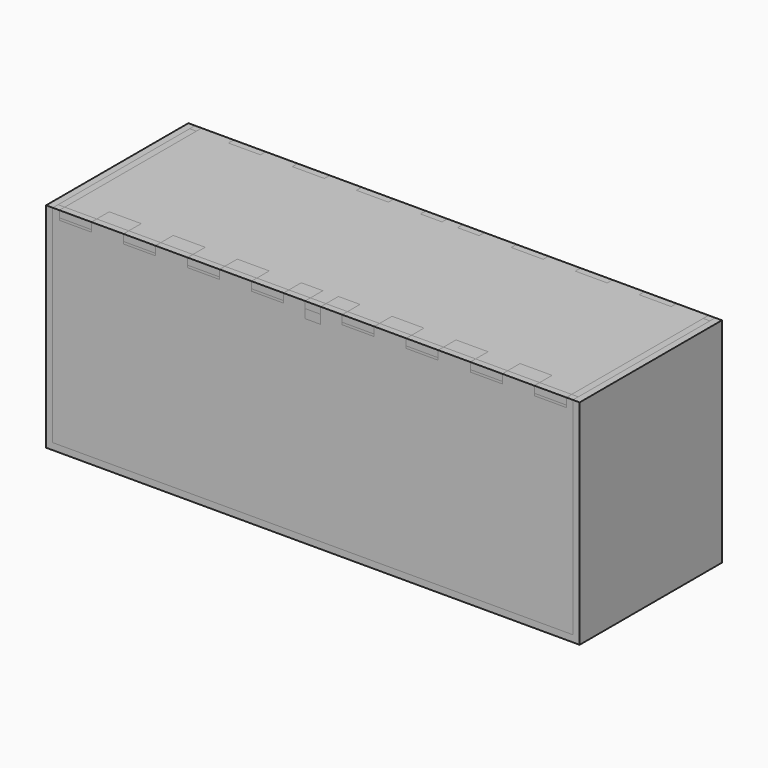
from build123d import *

# Parameters (mm, degrees)
F0_W      = 1524
F0_H      = 508
F1_DEPTH  = 609.6
F2_W      = 1485.9
F2_H      = 571.5
F3_DEPTH  = 19.05
F5_DEPTH  = 44.45
F7_DEPTH  = 19.05
F8_W      = 469.9
F8_H      = 101.6
F8_H_2    = 38.1
F9_DEPTH  = 19.05
F11_W     = 1485.9
F11_H     = 19.05
F12_DEPTH = 19.05


with BuildPart() as f1:
    # F0 (on Top) → F1 (new body)
    with BuildSketch(Plane.XY):
        Rectangle(F0_W, F0_H)
    extrude(amount=-F1_DEPTH)


with BuildPart() as f3:
    # F2 (on face) → F3 (new body)
    with BuildSketch(Plane.XZ.offset(254)):
        with Locations((0, -304.8)):
            Rectangle(F2_W, F2_H)
    extrude(amount=-F3_DEPTH)


with BuildPart() as f5:
    # F4 (on face) → F5 (new body)
    with BuildSketch(Plane(origin=(0, -234.95, 0), x_dir=(-1, 0, 0), z_dir=(0, 1, 0))):
        Polygon((-723.9, -25.4), (-723.9, -95.25), (723.9, -95.25), (723.9, -25.4), (632.46, -25.4), (632.46, 0), (541.02, 0), (541.02, -25.4), (449.58, -25.4), (449.58, 0), (358.14, 0), (358.14, -25.4), (266.7, -25.4), (266.7, 0), (175.26, 0), (175.26, -25.4), (83.82, -25.4), (83.82, 0), (22.225, 0), (22.225, -44.45), (-22.225, -44.45), (-22.225, 0), (-83.82, 0), (-83.82, -25.4), (-175.26, -25.4), (-175.26, 0), (-266.7, 0), (-266.7, -25.4), (-358.14, -25.4), (-358.14, 0), (-449.58, 0), (-449.58, -25.4), (-541.02, -25.4), (-541.02, 0), (-632.46, 0), (-632.46, -25.4), align=None)
    extrude(amount=F5_DEPTH)


with BuildPart() as f7:
    # F6 (on face) → F7 (new body)
    with BuildSketch(Plane(origin=(0, 254, 0), x_dir=(-1, 0, 0), z_dir=(0, 1, 0))):
        Polygon((-742.95, 0), (-742.95, -590.55), (742.95, -590.55), (742.95, 0), (723.9, 0), (723.9, -25.4), (632.46, -25.4), (632.46, 0), (541.02, 0), (541.02, -25.4), (449.58, -25.4), (449.58, 0), (358.14, 0), (358.14, -25.4), (266.7, -25.4), (266.7, 0), (175.26, 0), (175.26, -25.4), (83.82, -25.4), (83.82, 0), (22.225, 0), (22.225, -44.45), (-22.225, -44.45), (-22.225, 0), (-83.82, 0), (-83.82, -25.4), (-175.26, -25.4), (-175.26, 0), (-266.7, 0), (-266.7, -25.4), (-358.14, -25.4), (-358.14, 0), (-449.58, 0), (-449.58, -25.4), (-541.02, -25.4), (-541.02, 0), (-632.46, 0), (-632.46, -25.4), (-723.9, -25.4), (-723.9, 0), align=None)
    extrude(amount=-F7_DEPTH)


with BuildPart() as f9:
    # F8 (on face) → F9 (new body)
    with BuildSketch(Plane.YZ.offset(742.95)):
        with Locations((0, -50.8)):
            Rectangle(F8_W, F8_H)
        with Locations((0, -571.5)):
            Rectangle(F8_W, F8_H_2)
    extrude(amount=-F9_DEPTH)


with BuildPart() as f10_1:
    # F10: instance of F9
    add(f9.part.mirror(Plane.YZ))


with BuildPart() as f12:
    # F11 (on face) → F12 (new body)
    with BuildSketch(Plane.XY.offset(-19.05)):
        with Locations((0, -244.475)):
            Rectangle(F11_W, F11_H)
    extrude(amount=F12_DEPTH)


with BuildPart() as f13_1:
    # F13: instance of F7
    add(f7.part.mirror(Plane.XZ))


solid = Compound([f1.part, f3.part, f5.part, f7.part, f9.part, f10_1.part, f12.part, f13_1.part])
